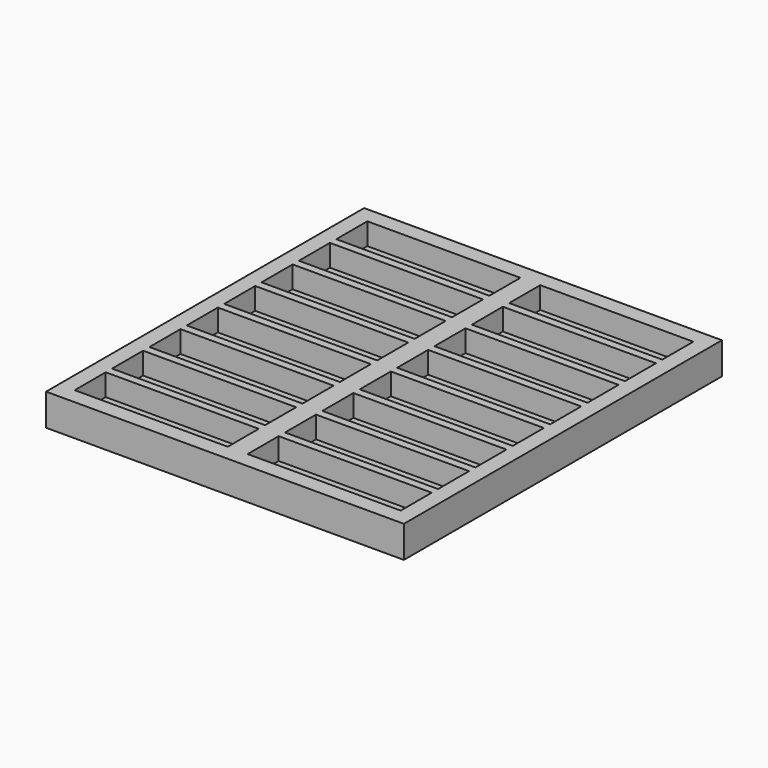
from build123d import *

# Parameters (mm, degrees)
F0_W     = 180
F0_H     = 200
F1_DEPTH = 16
F2_W     = 77
F2_H     = 19.5
F3_DEPTH = 11


with BuildPart() as f1:
    # F0 (on Top) → F1 (new body)
    with BuildSketch(Plane.XY):
        Rectangle(F0_W, F0_H)
    extrude(amount=F1_DEPTH)

    # F2 (on face) → F3 (cut)
    with BuildSketch(Plane.XY.offset(16)):
        with Locations((-43.5, 82.25)):
            Rectangle(F2_W, F2_H)
        with Locations((-43.5, 58.75)):
            Rectangle(F2_W, F2_H)
        with Locations((43.5, 58.75)):
            Rectangle(F2_W, F2_H)
        with Locations((43.5, 82.25)):
            Rectangle(F2_W, F2_H)
        with Locations((43.5, 35.25)):
            Rectangle(F2_W, F2_H)
        with Locations((-43.5, 35.25)):
            Rectangle(F2_W, F2_H)
        with Locations((-43.5, 11.75)):
            Rectangle(F2_W, F2_H)
        with Locations((43.5, 11.75)):
            Rectangle(F2_W, F2_H)
        with Locations((43.5, -11.75)):
            Rectangle(F2_W, F2_H)
        with Locations((-43.5, -11.75)):
            Rectangle(F2_W, F2_H)
        with Locations((-43.5, -35.25)):
            Rectangle(F2_W, F2_H)
        with Locations((43.5, -35.25)):
            Rectangle(F2_W, F2_H)
        with Locations((-43.5, -58.75)):
            Rectangle(F2_W, F2_H)
        with Locations((43.5, -58.75)):
            Rectangle(F2_W, F2_H)
        with Locations((-43.5, -82.25)):
            Rectangle(F2_W, F2_H)
        with Locations((43.5, -82.25)):
            Rectangle(F2_W, F2_H)
    extrude(amount=-F3_DEPTH, mode=Mode.SUBTRACT)


solid = f1.part
